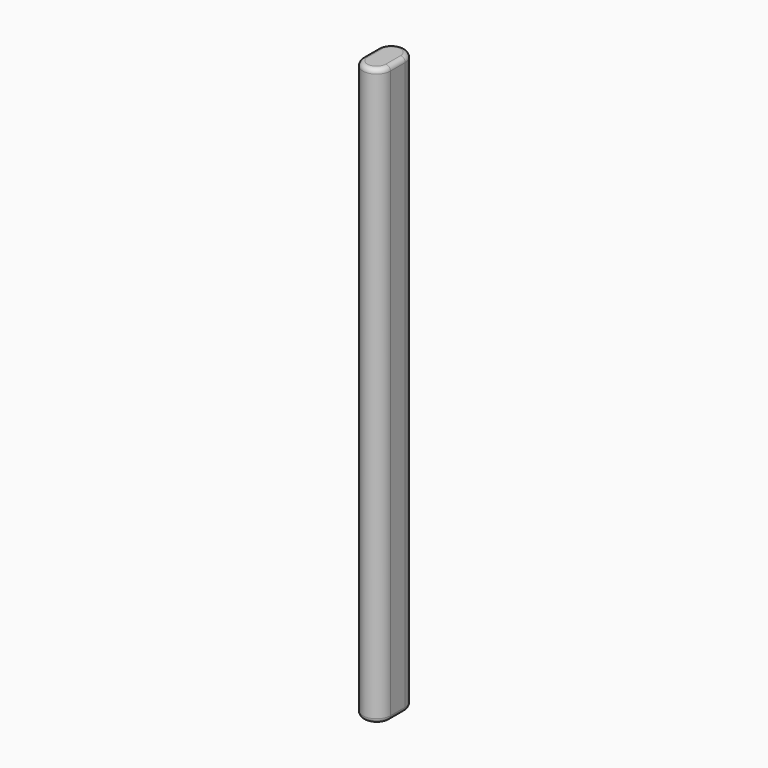
from build123d import *

# Parameters (mm, degrees)
F1_DEPTH = 317.5
F2_R     = 2.54
F3_R     = 2.54


with BuildPart() as f1:
    # F0 (on Top) → F1 (new body)
    with BuildSketch(Plane.XY):
        with BuildLine():
            Line((-8.061039, 7.452499), (-8.061039, 0))
            Line((-8.061039, 0), (-8.061039, -2.707501))
            ThreePointArc((-8.061039, -2.707501), (-0.441039, -10.327501), (7.178961, -2.707501))
            Line((7.178961, -2.707501), (7.178961, 0))
            Line((7.178961, 0), (7.178961, 7.452499))
            ThreePointArc((7.178961, 7.452499), (-0.441039, 15.072499), (-8.061039, 7.452499))
        make_face()
    extrude(amount=F1_DEPTH)

    # F2
    f2_edges = [f1.edges().sort_by_distance(p)[0] for p in [
        (-0.441039, 15.072499, 317.5),
        (7.178961, 2.372499, 317.5),
        (-0.441039, -10.327501, 317.5),
        (-8.061039, 2.372499, 317.5),
    ]]
    fillet(f2_edges, radius=F2_R)

    # F3
    f3_edges = [f1.edges().sort_by_distance(p)[0] for p in [
        (-0.441039, 15.072499, 0),
        (-0.441039, -10.327501, 0),
        (7.178961, 2.372499, 0),
        (-8.061039, 2.372499, 0),
    ]]
    fillet(f3_edges, radius=F3_R)


solid = f1.part
